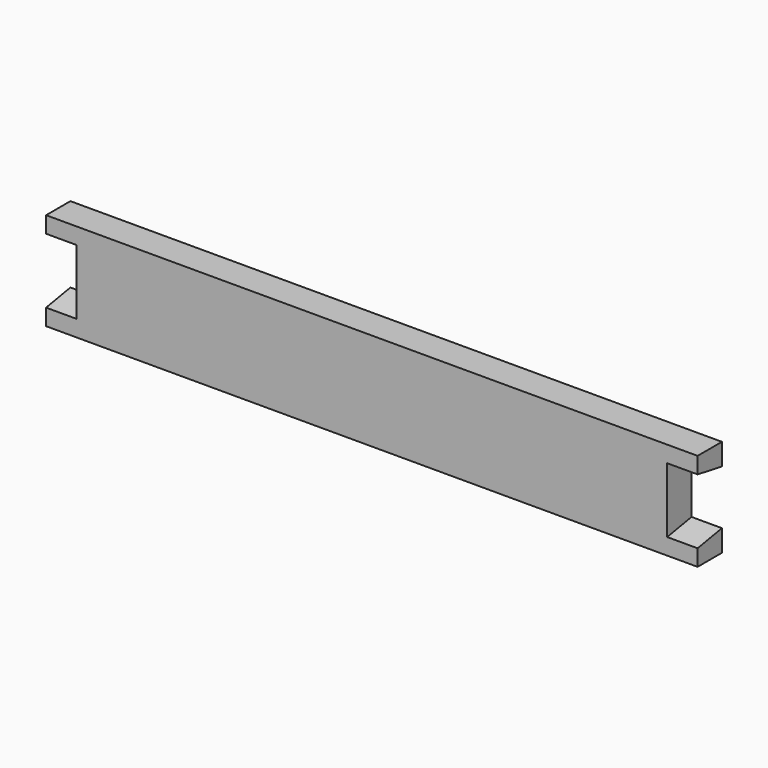
from build123d import *

# Parameters (mm, degrees)
F0_W     = 762
F0_H     = 114.3
F1_DEPTH = 35.56
F3_DEPTH = 35.56
F5_DEPTH = 35.56


with BuildPart() as f1:
    # F0 (on Front) → F1 (new body)
    with BuildSketch(Plane.XZ):
        Rectangle(F0_W, F0_H)
    extrude(amount=F1_DEPTH)

    # F2 (on face) → F3 (cut)
    with BuildSketch(Plane(origin=(-381, 0, 0), x_dir=(0, -1, 0), z_dir=(-1, 0, 0))):
        Polygon((35.56, 38.020187), (0, 31.75), (0, -31.75), (35.56, -38.020187), align=None)
    extrude(amount=-F3_DEPTH, mode=Mode.SUBTRACT)

    # F4 (on face) → F5 (cut)
    with BuildSketch(Plane.YZ.offset(381)):
        Polygon((0, 31.75), (-35.56, 38.020187), (-35.56, -38.020187), (0, -31.75), align=None)
    extrude(amount=-F5_DEPTH, mode=Mode.SUBTRACT)


solid = f1.part
